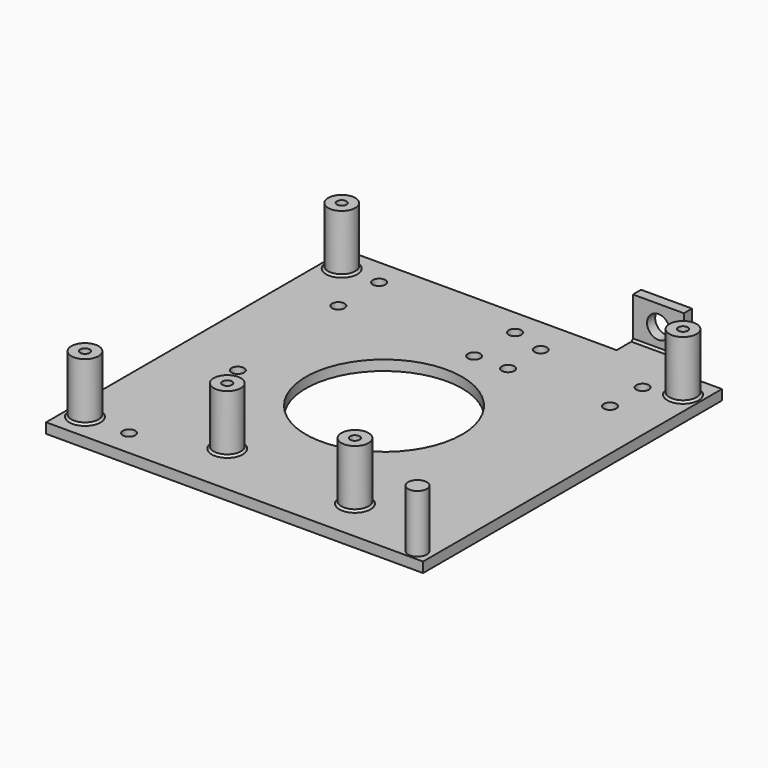
from build123d import *

# Parameters (mm, degrees)
SKETCH001_R                          = 4
SKETCH001_R_2                        = 1.4
SKETCH001_R_3                        = 2.75
EXTRUDE001_DEPTH                     = 20
SKETCH002_AS_DRAWN_W                 = 15
SKETCH002_AS_DRAWN_H                 = 13
SKETCH002_AS_DRAWN_R                 = 3.35
EXTRUDE002_DEPTH                     = 3
EXTRUDE002_ONTO_SKETCH002_ROLL_ANGLE = 90
SKETCH_R                             = 1.9
SKETCH_R_2                           = 23
SKETCH_R_3                           = 1.85
EXTRUDE_DEPTH                        = 3
CHAMFER_SIZE                         = 0.6


with BuildPart() as extrude001:
    # Sketch001 → Extrude001 (new body)
    with BuildSketch(Plane.XY):
        with Locations((-50.25, -47.25)):
            Circle(SKETCH001_R)
        with Locations((-50.25, -47.25)):
            Circle(SKETCH001_R_2, mode=Mode.SUBTRACT)
        with Locations((50.25, 47.25)):
            Circle(SKETCH001_R)
        with Locations((50.25, 47.25)):
            Circle(SKETCH001_R_2, mode=Mode.SUBTRACT)
        with Locations((-50.25, 47.25)):
            Circle(SKETCH001_R)
        with Locations((-50.25, 47.25)):
            Circle(SKETCH001_R_2, mode=Mode.SUBTRACT)
        with Locations((25.25, -42.25)):
            Circle(SKETCH001_R)
        with Locations((25.25, -42.25)):
            Circle(SKETCH001_R_2, mode=Mode.SUBTRACT)
        with Locations((51.25, -51.75)):
            Circle(SKETCH001_R_3)
        with Locations((-14.75, -39.25)):
            Circle(SKETCH001_R)
        with Locations((-14.75, -39.25)):
            Circle(SKETCH001_R_2, mode=Mode.SUBTRACT)
    extrude(amount=EXTRUDE001_DEPTH)


with BuildPart() as extrude002:
    # Sketch002 as drawn → Extrude002 (new)
    with BuildSketch(Plane.XY):
        with Locations((0, 6.5)):
            Rectangle(SKETCH002_AS_DRAWN_W, SKETCH002_AS_DRAWN_H)
        with Locations((0, 7)):
            Circle(SKETCH002_AS_DRAWN_R, mode=Mode.SUBTRACT)
    extrude(amount=-EXTRUDE002_DEPTH)


with BuildPart() as extrude002_1:
    # Extrude002 onto Sketch002 roll: moved
    add(extrude002.part.rotate(Axis((0, 0, 0), (1, 0, 0)), EXTRUDE002_ONTO_SKETCH002_ROLL_ANGLE))


with BuildPart() as extrude002_2:
    # Extrude002 onto Sketch002 placement: moved
    add(extrude002_1.part)


with BuildPart() as extrude002_3:
    # Extrude002 placement: moved
    add(extrude002_2.part.moved(Location((32, 61, 2))))


with BuildPart() as chamfer_body:
    # Sketch → Extrude (new body)
    with BuildSketch(Plane.XY):
        Polygon((55.5, 55), (55.5, -55), (-55.5, -55), (-55.5, 55), (24.5, 55), (24.5, 65), (39.5, 65), (39.5, 55), align=None)
        with Locations((-50.25, -47.25)):
            Circle(SKETCH_R, mode=Mode.SUBTRACT)
        Circle(SKETCH_R_2, mode=Mode.SUBTRACT)
        with Locations((-39.25, 47.25)):
            Circle(SKETCH_R_3, mode=Mode.SUBTRACT)
        with Locations((0.75, 47.25)):
            Circle(SKETCH_R_3, mode=Mode.SUBTRACT)
        with Locations((-39.25, 32.25)):
            Circle(SKETCH_R_3, mode=Mode.SUBTRACT)
        with Locations((0.75, 32.25)):
            Circle(SKETCH_R_3, mode=Mode.SUBTRACT)
        with Locations((10.75, 44.25)):
            Circle(SKETCH_R_3, mode=Mode.SUBTRACT)
        with Locations((40.75, 44.25)):
            Circle(SKETCH_R_3, mode=Mode.SUBTRACT)
        with Locations((10.75, 32.25)):
            Circle(SKETCH_R_3, mode=Mode.SUBTRACT)
        with Locations((40.75, 32.25)):
            Circle(SKETCH_R_3, mode=Mode.SUBTRACT)
        with Locations((50.25, 47.25)):
            Circle(SKETCH_R, mode=Mode.SUBTRACT)
        with Locations((-50.25, 47.25)):
            Circle(SKETCH_R, mode=Mode.SUBTRACT)
        with Locations((25.25, -42.25)):
            Circle(SKETCH_R, mode=Mode.SUBTRACT)
        with Locations((-14.75, -39.25)):
            Circle(SKETCH_R, mode=Mode.SUBTRACT)
        with Locations((-37.25, -7.25)):
            Circle(SKETCH_R_3, mode=Mode.SUBTRACT)
        with Locations((-37.25, -47.25)):
            Circle(SKETCH_R_3, mode=Mode.SUBTRACT)
    extrude(amount=EXTRUDE_DEPTH)

    # Fusion: union Extrude001, Extrude002
    add(extrude001.part)
    add(extrude002_3.part)

    # Chamfer
    chamfer_edges = [chamfer_body.edges().sort_by_distance(p)[0] for p in [
        (32, 61, 3),
        (32, 64, 3),
        (-54.25, -47.25, 3),
        (-18.75, -39.25, 3),
        (21.25, -42.25, 3),
        (-54.25, 47.25, 3),
        (46.25, 47.25, 3),
    ]]
    chamfer(chamfer_edges, length=CHAMFER_SIZE)


solid = chamfer_body.part
